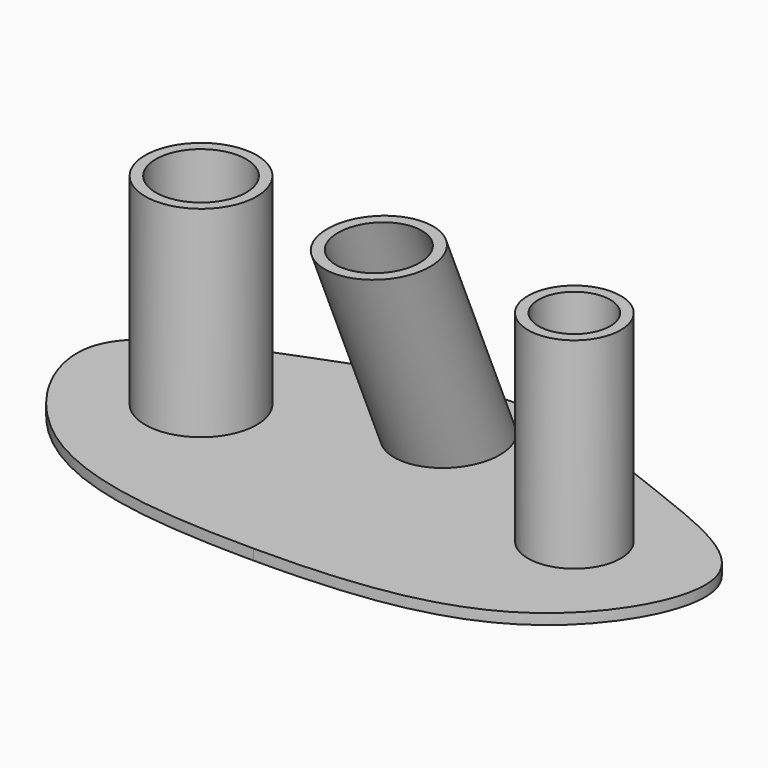
from build123d import *

# Parameters (mm, degrees)
F1_DEPTH = 50
F5_R     = 10.6799017819
F5_R_2   = 8.4597431053
F6_DEPTH = 50.0010001
F7_T     = -2.5


with BuildPart() as f1:
    # F0 (on Top) → F1 (new body)
    with BuildSketch(Plane.XY):
        with BuildLine():
            Line((0, 75.6106601152), (0, 0))
            add(Edge.make_bspline(
                [(0, 75.6106601152), (16.3684235605, 75.6106601152), (42.2453839997, 64.5620147418), (83.4319100444, 49.4208571166), (60.1946377215, 5.4448728706), (27.0147223777, 0), (0, 0)],
                knots=[0, 0, 0, 0, 0.2591806098, 0.4816524133, 0.7020171791, 1, 1, 1, 1], degree=3))
        make_face()
    extrude(amount=F1_DEPTH)

    # F2: F1 across face


with BuildPart() as f1_1:
    add(f1.part)
    add(f1.part.mirror(Plane(origin=(0, 37.8053300576, 25), x_dir=(0, -1, 0), z_dir=(-1, 0, 0))))

    # F3 (on Right) → F4 (revolve, cut)
    with BuildSketch(Plane.YZ):
        Polygon((41.0470664501, 64.9524852633), (30.8941714466, 64.1714856029), (62.5741977341, -9.0512155762), (71.4108697022, -5.2280023413), align=None)
    revolve(axis=Axis((0, 46.7341845904, 27.5601350133), (0, 0.3970817383, -0.9177832495)), mode=Mode.SUBTRACT)

    # F5 (on face) → F6 (cut, through all)
    with BuildSketch(Plane.XY.offset(50)):
        with Locations((-43.5571484268, 38.964420557)):
            Circle(F5_R)
        with Locations((44.4338209927, 39.2247512937)):
            Circle(F5_R_2)
    extrude(amount=-F6_DEPTH, mode=Mode.SUBTRACT)

    # F7
    f7_openings = [f1_1.faces().sort_by_distance(p)[0] for p in [
        (72.237175, 37.530472, 50),
        (-74.030858, 42.838058, 25),
        (74.030858, 42.838058, 25),
    ]]
    offset(amount=F7_T, openings=f7_openings, kind=Kind.INTERSECTION)


solid = f1_1.part
